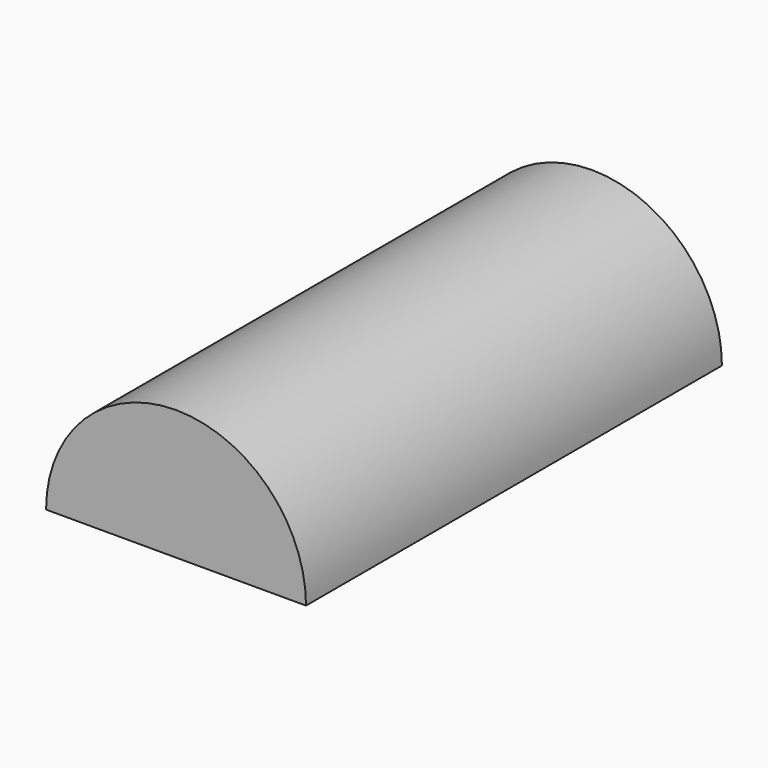
from build123d import *

# Parameters (mm, degrees)
F1_DEPTH = 101.6
F2_T     = -2.54


with BuildPart() as f1:
    # F0 (on Front) → F1 (new body)
    with BuildSketch(Plane.XZ):
        with BuildLine():
            Line((-25.4, 0), (25.4, 0))
            ThreePointArc((25.4, 0), (0, 25.4), (-25.4, 0))
        make_face()
    extrude(amount=F1_DEPTH)

    # F2
    f2_openings = [f1.faces().sort_by_distance(p)[0] for p in [
        (0, -50.8, 0),
    ]]
    offset(amount=F2_T, openings=f2_openings)


solid = f1.part
